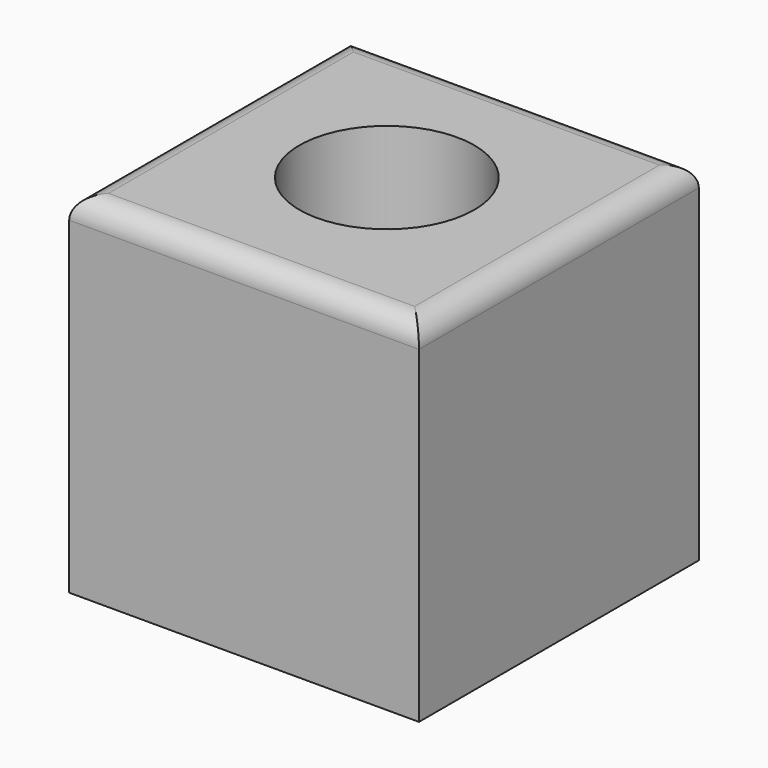
from build123d import *

# Parameters (mm, degrees)
F0_W     = 80
F0_H     = 80
F1_DEPTH = 40
F2_R     = 20
F3_DEPTH = 80.001
F4_R     = 5


with BuildPart() as f1:
    # F0 (on Front) → F1 (new body, symmetric)
    with BuildSketch(Plane.XZ):
        Rectangle(F0_W, F0_H)
    extrude(amount=F1_DEPTH, both=True)

    # F2 (on face) → F3 (cut, through all)
    with BuildSketch(Plane.XY.offset(40)):
        with Locations((0, 0.813212)):
            Circle(F2_R)
    extrude(amount=-F3_DEPTH, mode=Mode.SUBTRACT)

    # F4
    f4_edges = [f1.edges().sort_by_distance(p)[0] for p in [
        (-40, 0, 40),
        (0, -40, 40),
        (40, 0, 40),
        (0, 40, 40),
    ]]
    fillet(f4_edges, radius=F4_R)


solid = f1.part
